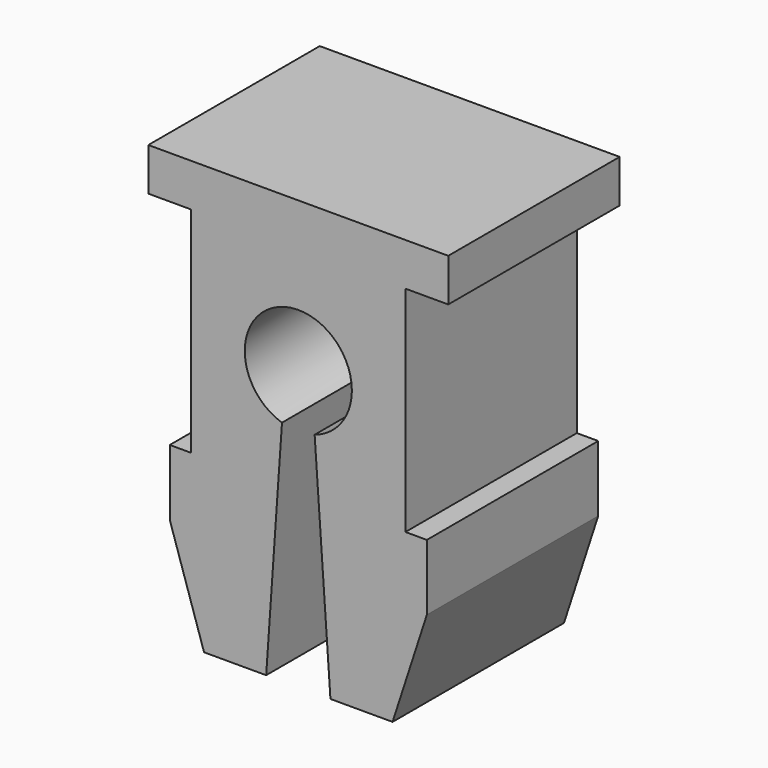
from build123d import *

# Parameters (mm, degrees)
F1_DEPTH = 5


with BuildPart() as f1:
    # F0 (on Front) → F1 (new body)
    with BuildSketch(Plane.XZ):
        with BuildLine():
            Line((3.5, 3.5), (-3.5, 3.5))
            Line((-3.5, 3.5), (-3.5, 2.5))
            Line((-3.5, 2.5), (-2.5, 2.5))
            Line((-2.5, 2.5), (-2.5, -2.5))
            Line((-2.5, -2.5), (-3, -2.5))
            Line((-3, -2.5), (-3, -4.038462))
            Line((-3, -4.038462), (-2.2, -6.5))
            Line((-2.2, -6.5), (-0.75, -6.5))
            Line((-0.75, -6.5), (-0.381107, -1.190486))
            ThreePointArc((-0.381107, -1.190486), (-0.736925, 1.009674), (1.25, 0))
            ThreePointArc((1.25, 0), (1.009674, -0.736925), (0.381107, -1.190486))
            Line((0.381107, -1.190486), (0.75, -6.5))
            Line((0.75, -6.5), (2.2, -6.5))
            Line((2.2, -6.5), (3, -4.038462))
            Line((3, -4.038462), (3, -2.5))
            Line((3, -2.5), (2.5, -2.5))
            Line((2.5, -2.5), (2.5, 2.5))
            Line((2.5, 2.5), (3.5, 2.5))
            Line((3.5, 2.5), (3.5, 3.5))
        make_face()
    extrude(amount=F1_DEPTH)


solid = f1.part
